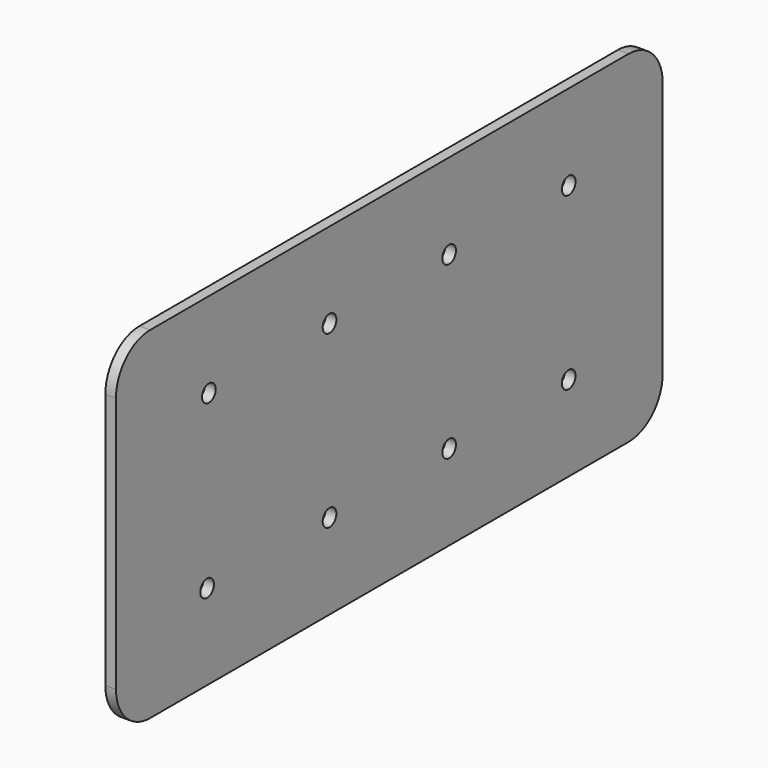
from build123d import *

# Parameters (mm, degrees)
F0_R     = 2.54
F1_DEPTH = 3.175


with BuildPart() as f1:
    # F0 (on Right) → F1 (new body)
    with BuildSketch(Plane.YZ):
        with BuildLine():
            Line((256.36532, -276.808413), (78.56532, -276.808413))
            ThreePointArc((78.56532, -276.808413), (69.585064, -280.528157), (65.86532, -289.508413))
            Line((65.86532, -289.508413), (65.86532, -365.708413))
            ThreePointArc((65.86532, -365.708413), (69.585064, -374.688669), (78.56532, -378.408413))
            Line((78.56532, -378.408413), (256.36532, -378.408413))
            ThreePointArc((256.36532, -378.408413), (265.345577, -374.688669), (269.06532, -365.708413))
            Line((269.06532, -365.708413), (269.06532, -289.508413))
            ThreePointArc((269.06532, -289.508413), (265.345577, -280.528157), (256.36532, -276.808413))
        make_face()
        with Locations((99.730516, -353.008413)):
            Circle(F0_R, mode=Mode.SUBTRACT)
        with Locations((145.24032, -353.008413)):
            Circle(F0_R, mode=Mode.SUBTRACT)
        with Locations((189.69032, -353.008413)):
            Circle(F0_R, mode=Mode.SUBTRACT)
        with Locations((234.14032, -353.008413)):
            Circle(F0_R, mode=Mode.SUBTRACT)
        with Locations((100.379329, -302.208413)):
            Circle(F0_R, mode=Mode.SUBTRACT)
        with Locations((145.24032, -302.208413)):
            Circle(F0_R, mode=Mode.SUBTRACT)
        with Locations((189.69032, -302.208413)):
            Circle(F0_R, mode=Mode.SUBTRACT)
        with Locations((234.14032, -302.208413)):
            Circle(F0_R, mode=Mode.SUBTRACT)
    extrude(amount=F1_DEPTH)


solid = f1.part
